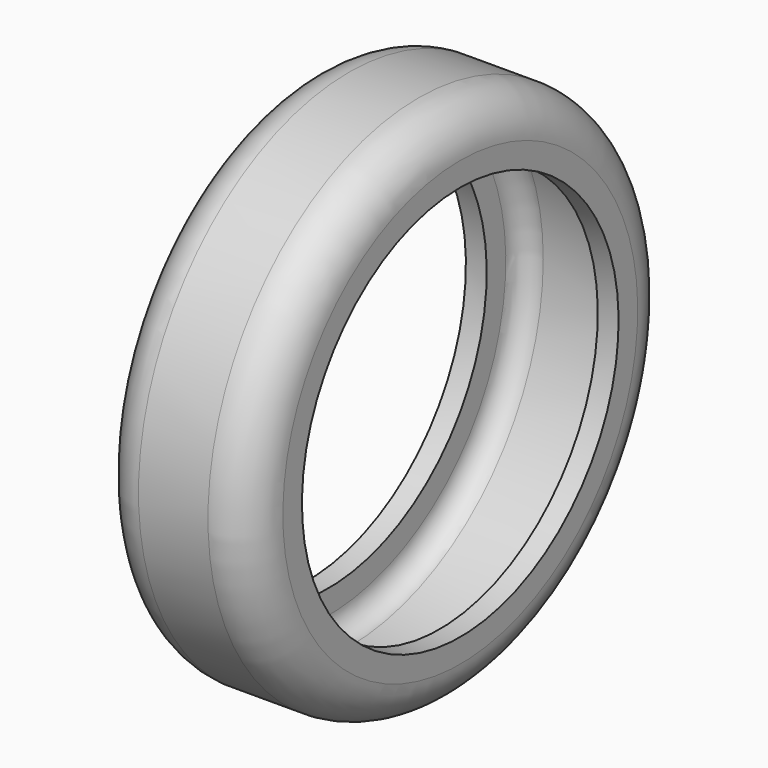
from build123d import *

# Parameters (mm, degrees)
F2_R = 5.08
F3_R = 5.08
F4_T = -2.54


with BuildPart() as f1:
    # F0 (on Front) → F1 (revolve)
    with BuildSketch(Plane.XZ):
        Polygon((0, 32.165237), (-9.322633, 32.165237), (-9.322633, 24.169475), (0, 24.169475), (9.322633, 24.169475), (9.322633, 32.165237), align=None)
    revolve(axis=Axis((0.987695, 0, 0), (1, 0, 0)))

    # F2
    f2_edges = [f1.edges().sort_by_distance(p)[0] for p in [
        (9.322633, 0, -32.165237),
    ]]
    fillet(f2_edges, radius=F2_R)

    # F3
    f3_edges = [f1.edges().sort_by_distance(p)[0] for p in [
        (-9.322633, 0, -32.165237),
    ]]
    fillet(f3_edges, radius=F3_R)

    # F4
    f4_openings = [f1.faces().sort_by_distance(p)[0] for p in [
        (0, 0, -24.169475),
    ]]
    offset(amount=F4_T, openings=f4_openings)


solid = f1.part
